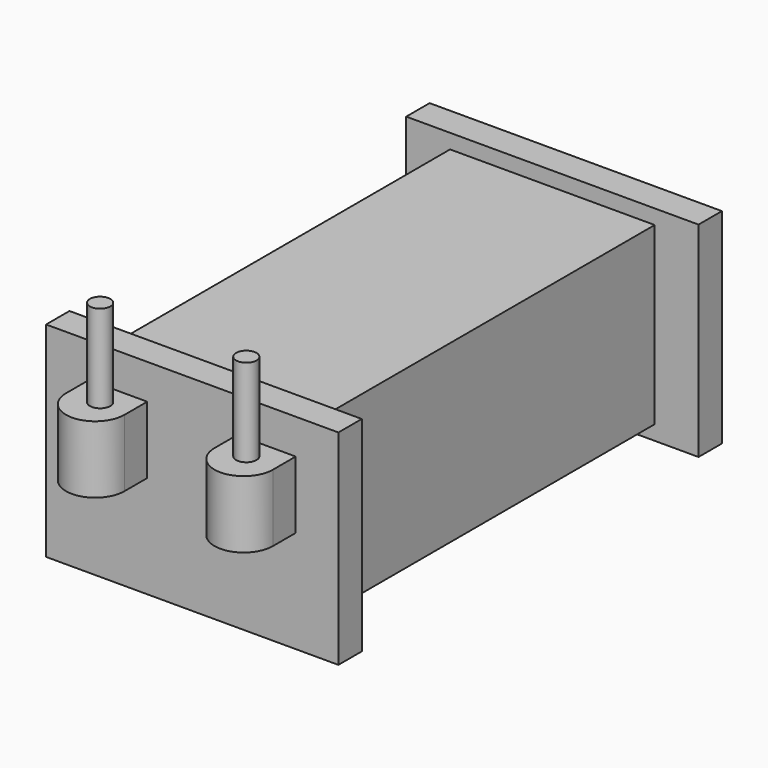
from build123d import *

# Parameters (mm, degrees)
SKETCH204_W  = 7
SKETCH204_H  = 14.4
PAD129_DEPTH = 3
SKETCH211_W  = 10
SKETCH211_H  = 7
PAD132_DEPTH = 1
SKETCH208_W  = 10
SKETCH208_H  = 7
PAD135_DEPTH = 1
PAD140_DEPTH = 2.3
SKETCH209_R  = 0.35
PAD130_DEPTH = 3


with BuildPart() as part:
    # Sketch204 → Pad129 (new body, symmetric)
    with BuildSketch(Plane.XY):
        with Locations((0, -0.37169)):
            Rectangle(SKETCH204_W, SKETCH204_H)
    extrude(amount=PAD129_DEPTH, both=True)

    # Sketch211 (on Face3 of Pad129) → Pad132 (join)
    with BuildSketch(Plane.XZ.offset(7.57169)):
        Rectangle(SKETCH211_W, SKETCH211_H)
    extrude(amount=PAD132_DEPTH)

    # Sketch208 (on Face11 of Pad132) → Pad135 (join)
    with BuildSketch(Plane(origin=(0, 6.82831, 0), x_dir=(-1, 0, 0), z_dir=(0, 1, 0))):
        Rectangle(SKETCH208_W, SKETCH208_H)
    extrude(amount=PAD135_DEPTH)

    # Sketch216 → Pad140 (join)
    with BuildSketch(Plane.XY):
        with BuildLine():
            ThreePointArc((-3.539731, -9.545275), (-2.539731, -10.545275), (-1.539731, -9.545275))
            Line((-1.539731, -8.57169), (-1.539731, -9.545275))
            Line((-3.539731, -8.57169), (-1.539731, -8.57169))
            Line((-3.539731, -8.57169), (-3.539731, -9.545275))
        make_face()
        with BuildLine():
            ThreePointArc((1.539731, -9.545275), (2.539731, -10.545275), (3.539731, -9.545275))
            Line((3.539731, -8.57169), (3.539731, -9.545275))
            Line((3.539731, -8.57169), (1.539731, -8.57169))
            Line((1.539731, -8.57169), (1.539731, -9.545275))
        make_face()
    extrude(amount=PAD140_DEPTH)

    # Sketch209 (on Face19 of Pad140) → Pad130 (join)
    with BuildSketch(Plane.XY.offset(2.3)):
        with Locations((-2.5, -9.384607)):
            Circle(SKETCH209_R)
        with Locations((2.5, -9.384607)):
            Circle(SKETCH209_R)
    extrude(amount=PAD130_DEPTH)


with BuildPart() as part_1:
    # Body037 placement: moved
    add(part.part.moved(Location((3.5, -13, 0))))


solid = part_1.part
